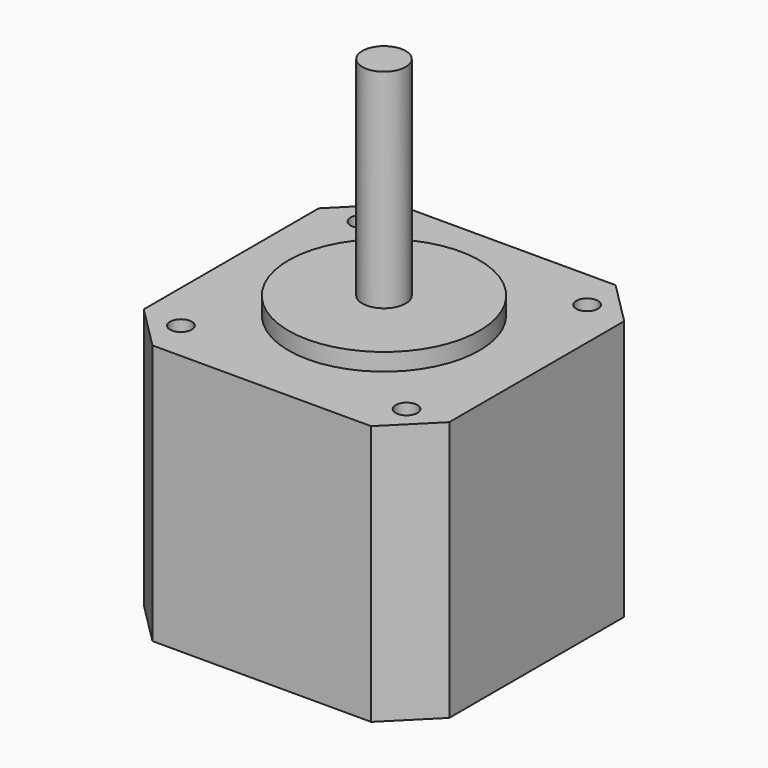
from build123d import *

# Parameters (mm, degrees)
F0_W     = 35.2
F0_H     = 35.2
F1_DEPTH = 30
F2_SIZE  = 5
F5_R     = 1.25
F6_DEPTH = 5


with BuildPart() as f1:
    # F0 (on Top) → F1 (new body)
    with BuildSketch(Plane.XY):
        Rectangle(F0_W, F0_H)
    extrude(amount=F1_DEPTH)

    # F2
    f2_edges = [f1.edges().sort_by_distance(p)[0] for p in [
        (17.6, -17.6, 15),
        (-17.6, -17.6, 15),
        (-17.6, 17.6, 15),
        (17.6, 17.6, 15),
    ]]
    chamfer(f2_edges, length=F2_SIZE)

    # F3 (on Right) → F4 (revolve)
    with BuildSketch(Plane.YZ):
        Polygon((-11, 30), (0, 30), (0, 56), (-2.5, 56), (-2.5, 32), (-11, 32), align=None)
    revolve(axis=Axis((0, 0, 43), (0, 0, 1)))

    # F5 (on face) → F6 (cut)
    with BuildSketch(Plane.XY.offset(30)):
        with Locations((-13, 13)):
            Circle(F5_R)
        with Locations((13, 13)):
            Circle(F5_R)
        with Locations((13, -13)):
            Circle(F5_R)
        with Locations((-13, -13)):
            Circle(F5_R)
    extrude(amount=-F6_DEPTH, mode=Mode.SUBTRACT)


solid = f1.part
